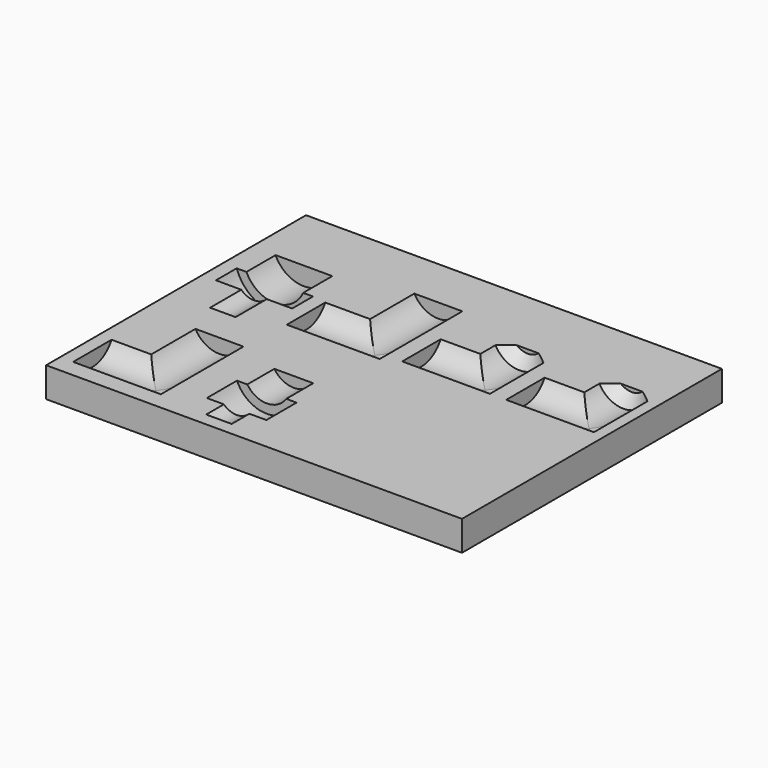
from build123d import *

# Parameters (mm, degrees)
F0_W      = 160
F0_H      = 125
F1_DEPTH  = 16.5
F4_W      = 35
F4_H      = 10.5
F6_W      = 37
F6_H      = 10.5
F8_W      = 10.5
F8_H      = 20
F8_H_2    = 21
F10_W     = 35
F10_H     = 10.5
F12_W     = 10.5
F12_H     = 21
F14_W     = 10.5
F14_H     = 21
F16_W     = 10.5
F16_H     = 20
F16_H_2   = 21
F20_W     = 160
F20_H     = 5
F21_DEPTH = 160
F22_W     = 1.2669073437
F22_H     = 18.4661853126
F22_W_2   = 18.4661853126
F22_H_2   = 1.2669073437
F23_DEPTH = 5


with BuildPart() as f1:
    # F0 (on Top) → F1 (new body)
    with BuildSketch(Plane.XY):
        with Locations((80, 62.5)):
            Rectangle(F0_W, F0_H)
    extrude(amount=-F1_DEPTH)

    # F2 (on face) → F3 (revolve, cut)
    with BuildSketch(Plane.XY):
        Polygon((20, 75), (20, 60), (27, 60), (27, 75), (35.5, 75), (35.5, 85), (32, 85), (32, 99), (24.5, 99), (24.5, 113), (20, 113), (20, 99), (20, 85), align=None)
    revolve(axis=Axis((20, 92, 0), (0, 1, 0)), mode=Mode.SUBTRACT)

    # F4 (on face) → F5 (revolve, cut)
    with BuildSketch(Plane.XY):
        with Locations((22.5, 10.75)):
            Rectangle(F4_W, F4_H)
    revolve(axis=Axis((22.5, 16, 0), (1, 0, 0)), mode=Mode.SUBTRACT)

    # F6 (on face) → F7 (revolve, cut)
    with BuildSketch(Plane.XY):
        with Locations((58.5, 69.75)):
            Rectangle(F6_W, F6_H)
    revolve(axis=Axis((58.5, 75, 0), (1, 0, 0)), mode=Mode.SUBTRACT)

    # F8 (on face) → F9 (revolve, cut)
    with BuildSketch(Plane.XY):
        with Locations((71.75, 95.5)):
            Rectangle(F8_W, F8_H)
        with Locations((71.75, 75)):
            Rectangle(F8_W, F8_H_2)
    revolve(axis=Axis((66.5, 85, 0), (0, 1, 0)), mode=Mode.SUBTRACT)

    # F10 (on face) → F11 (revolve, cut)
    with BuildSketch(Plane.XY):
        with Locations((99.5, 72.75)):
            Rectangle(F10_W, F10_H)
        with Locations((139.5, 72.75)):
            Rectangle(F10_W, F10_H)
    revolve(axis=Axis((99.5, 78, 0), (1, 0, 0)), mode=Mode.SUBTRACT)

    # F12 (on face) → F13 (revolve, cut)
    with BuildSketch(Plane.XY):
        Polygon((106.5, 88.5), (117, 88.5), (117, 94.5), (113, 98.5), (106.5, 98.5), align=None)
        with Locations((111.75, 78)):
            Rectangle(F12_W, F12_H)
    revolve(axis=Axis((106.5, 83, 0), (0, 1, 0)), mode=Mode.SUBTRACT)

    # F14 (on face) → F15 (revolve, cut)
    with BuildSketch(Plane.XY):
        Polygon((146.5, 88.5), (157, 88.5), (157, 94.5), (153, 98.5), (146.5, 98.5), align=None)
        with Locations((151.75, 78)):
            Rectangle(F14_W, F14_H)
    revolve(axis=Axis((146.5, 83, 0), (0, 1, 0)), mode=Mode.SUBTRACT)

    # F16 (on face) → F17 (revolve, cut)
    with BuildSketch(Plane.XY):
        with Locations((34.75, 36.5)):
            Rectangle(F16_W, F16_H)
        with Locations((34.75, 16)):
            Rectangle(F16_W, F16_H_2)
    revolve(axis=Axis((29.5, 26, 0), (0, 1, 0)), mode=Mode.SUBTRACT)

    # F18 (on face) → F19 (revolve, cut)
    with BuildSketch(Plane.XY):
        Polygon((62.5, 13.5), (62.5, 5), (69.5, 5), (69.5, 13.5), (75, 13.5), (75, 28), (71.5, 28), (71.5, 41), (62.5, 41), (62.5, 28), align=None)
    revolve(axis=Axis((62.5, 20.75, 0), (0, 1, 0)), mode=Mode.SUBTRACT)

    # F20 (on face) → F21 (cut)
    with BuildSketch(Plane.XZ):
        with Locations((80, -2.5)):
            Rectangle(F20_W, F20_H)
    extrude(amount=-F21_DEPTH, mode=Mode.SUBTRACT)

    # F22 (on face) → F23 (join)
    with BuildSketch(Plane.XY.offset(-5)):
        with Locations((39.3665463282, 16)):
            Rectangle(F22_W, F22_H)
        with Locations((29.5, 6.1334536718)):
            Rectangle(F22_W_2, F22_H_2)
        with Locations((76.3665463282, 75)):
            Rectangle(F22_W, F22_H)
        with Locations((66.5, 65.1334536718)):
            Rectangle(F22_W_2, F22_H_2)
        with Locations((116.3665463282, 78)):
            Rectangle(F22_W, F22_H)
        with Locations((106.5, 68.1334536718)):
            Rectangle(F22_W_2, F22_H_2)
        with Locations((156.3665463282, 78)):
            Rectangle(F22_W, F22_H)
        with Locations((146.5, 68.1334536718)):
            Rectangle(F22_W_2, F22_H_2)
    extrude(amount=-F23_DEPTH)


solid = f1.part
